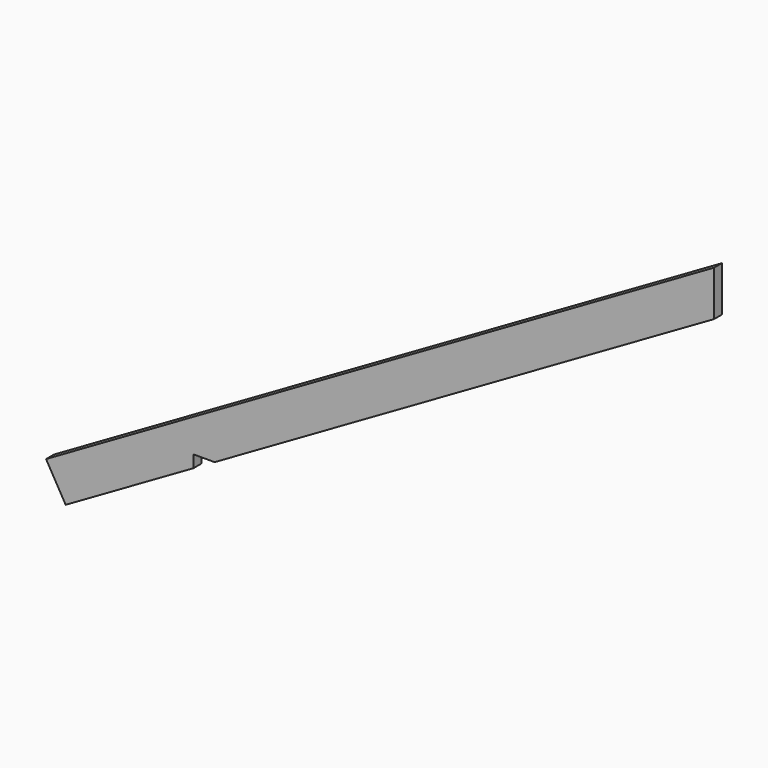
from build123d import *

# Parameters (mm, degrees)
F1_DEPTH = 12.7
F2_W     = 101.6
F2_H     = 101.6
F3_DEPTH = 25


with BuildPart() as f1:
    # F0 (on Front) → F1 (new body, symmetric)
    with BuildSketch(Plane.XZ):
        Polygon((0, 721.687836), (-1732.050808, -278.312164), (-1681.250808, -366.300345), (0, 604.370262), align=None)
    extrude(amount=F1_DEPTH, both=True)

    # F2 (on Front) → F3 (cut, symmetric)
    with BuildSketch(Plane.XZ):
        with Locations((-1299.2, -194.114704)):
            Rectangle(F2_W, F2_H)
    extrude(amount=F3_DEPTH, both=True, mode=Mode.SUBTRACT)


solid = f1.part
